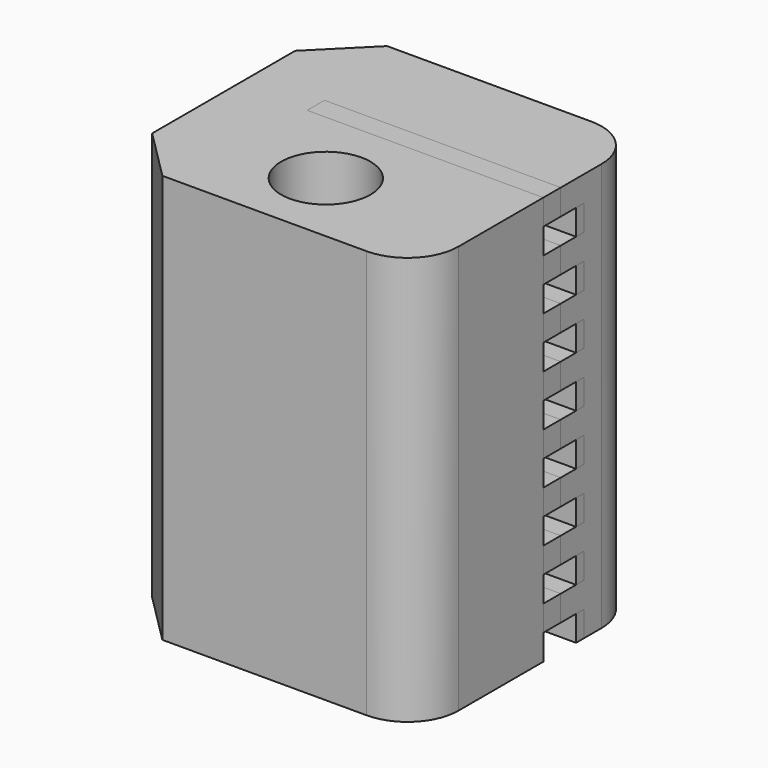
from build123d import *

# Parameters (mm, degrees)
SKETCH162_R     = 1.75
PAD047_DEPTH    = 16
POCKET093_DEPTH = 9.251
SKETCH164_R     = 1.75
PAD048_DEPTH    = 16
POCKET094_DEPTH = 9.251


with BuildPart() as belt_clip:
    # Sketch162 → Pad047 (new body)
    with BuildSketch(Plane.XY.offset(30)):
        with BuildLine():
            Line((-4, 4), (4, 4))
            ThreePointArc((6, 2), (5.414214, 3.414214), (4, 4))
            Line((6, 2), (6, -5))
            ThreePointArc((4, -7), (5.414214, -6.414214), (6, -5))
            Line((4, -7), (-4, -7))
            Line((-6, -5), (-4, -7))
            Line((-6, -5), (-6, 2))
            Line((-6, 2), (-4, 4))
        make_face()
        with Locations((0, -4)):
            Circle(SKETCH162_R, mode=Mode.SUBTRACT)
    extrude(amount=-PAD047_DEPTH)

    # Sketch163 → Pocket093 (cut, through all)
    with BuildSketch(Plane.YZ.offset(-3.25)):
        Polygon((0.75, 30), (0.75, 14), (-1, 14), (-1, 15), (0.15, 15), (0.15, 16), (-1, 16), (-1, 17), (0.15, 17), (0.15, 18), (-1, 18), (-1, 19), (0.15, 19), (0.15, 20), (-1, 20), (-1, 21), (0.15, 21), (0.15, 22), (-1, 22), (-1, 23), (0.15, 23), (0.15, 24), (-1, 24), (-1, 25), (0.15, 25), (0.15, 26), (-1, 26), (-1, 27), (0.15, 27), (0.15, 28), (-1, 28), (-1, 29), (0.15, 29), (0.15, 30), align=None)
    extrude(amount=POCKET093_DEPTH, mode=Mode.SUBTRACT)


with BuildPart() as belt_clip_reversed_tooth:
    # Sketch164 → Pad048 (new body)
    with BuildSketch(Plane.XY.offset(30)):
        with BuildLine():
            Line((-4, 4), (4, 4))
            ThreePointArc((6, 2), (5.414214, 3.414214), (4, 4))
            Line((6, 2), (6, -5))
            ThreePointArc((4, -7), (5.414214, -6.414214), (6, -5))
            Line((4, -7), (-4, -7))
            Line((-6, -5), (-4, -7))
            Line((-6, -5), (-6, 2))
            Line((-6, 2), (-4, 4))
        make_face()
        with Locations((0, -4)):
            Circle(SKETCH164_R, mode=Mode.SUBTRACT)
    extrude(amount=-PAD048_DEPTH)

    # Sketch165 → Pocket094 (cut, through all)
    with BuildSketch(Plane.YZ.offset(-3.25)):
        Polygon((-0.85, 30), (-0.85, 14), (1.15, 14), (1.15, 15), (0, 15), (0, 16), (1.15, 16), (1.15, 17), (0, 17), (0, 18), (1.15, 18), (1.15, 19), (0, 19), (0, 20), (1.15, 20), (1.15, 21), (0, 21), (0, 22), (1.15, 22), (1.15, 23), (0, 23), (0, 24), (1.15, 24), (1.15, 25), (0, 25), (0, 26), (1.15, 26), (1.15, 27), (0, 27), (0, 28), (1.15, 28), (1.15, 29), (0, 29), (0, 30), align=None)
    extrude(amount=POCKET094_DEPTH, mode=Mode.SUBTRACT)


solid = Compound([belt_clip.part, belt_clip_reversed_tooth.part])
